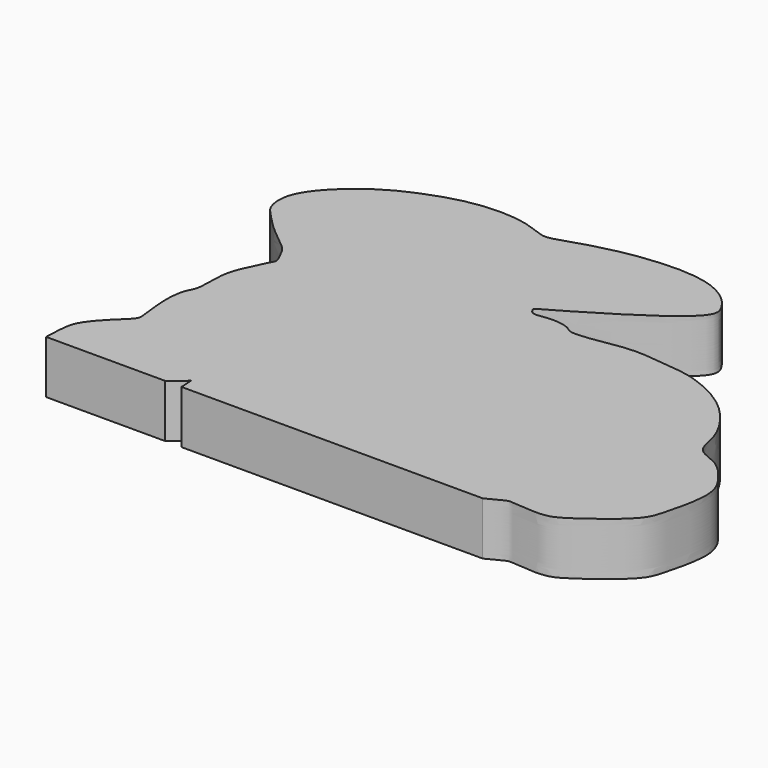
from build123d import *

# Parameters (mm, degrees)
F1_DEPTH = 18


with BuildPart() as f1:
    # F0 (on Top) → F1 (new body)
    with BuildSketch(Plane.XY):
        with BuildLine():
            add(Edge.make_bspline(
                [(3.9561353624, 1.0653864592), (4.0256955345, 2.9261752209), (4.1684964871, 6.7462118875), (4.8049380276, 13.060444088), (12.1278904893, 20.4781601883), (15.4809479093, 23.5454170625), (16.5220126779, 25.2526682698), (16.2593882597, 28.5102622565), (14.8893921712, 37.5962337842), (16.0324935063, 45.0272719985), (18.2125727796, 47.5221342952), (17.941378147, 55.177452398), (18.6829625714, 61.3786797655), (21.9058358496, 68.0147120541), (23.6481831871, 71.6840928815), (24.8948026327, 73.5373689268), (22.5168729216, 77.192488655), (21.6435120245, 80.1510156977), (12.3033067139, 86.7591953077), (6.4345178315, 93.3257492773), (3.3321667177, 96.4103786967), (1.9235398692, 106.8135580849), (16.4181786177, 121.0213247921), (30.2601421326, 127.911250908), (46.4749515539, 132.9814593573), (62.8189220428, 132.1804026479), (70.5785768085, 127.831960695), (76.6684716166, 130.0420452623), (92.1437769157, 134.8775403865), (110.4636760801, 136.7244451323), (122.3630656673, 135.0977880315), (129.6180252862, 130.942087482), (133.4022860458, 126.2196929459), (136.8592894245, 118.1683859193), (95.734225473, 95.0302981851), (94.6688105756, 94.3520146362), (95.2856900468, 93.0870163666), (96.777276908, 91.6181733144), (102.5039976346, 93.2000196132), (108.849717754, 91.8767002359), (110.4917621334, 89.3243493373), (123.2280517976, 91.2824267052), (131.0449456144, 92.7459684646), (144.4738015131, 91.069078194), (152.206882215, 90.2718533831), (164.8193450948, 84.7479490401), (173.0312994332, 76.4949133294), (178.5914418141, 67.4008226579), (179.2193801299, 57.8761413519), (187.7320801015, 56.2407427729), (193.4452341913, 49.7038524773), (199.2150371286, 41.5759991785), (194.9762636255, 25.3263648812), (193.2120137539, 18.0397879862), (178.5253873946, 6.9780844531), (172.351887507, 3.3688172902), (165.5988734316, 3.5461057274), (159.8680946184, 4.123343459), (157.9647857643, 4.213110247), (152.4098928723, 0.9227093736), (152.1864533424, 0.9890345391)],
                knots=[0, 0, 0, 0, 0.014534768, 0.0298707122, 0.0496313647, 0.0626900883, 0.070624456, 0.0812581072, 0.1002506977, 0.1168867539, 0.1276479915, 0.1441012309, 0.1600003837, 0.1766365276, 0.1889518863, 0.1973876869, 0.2094039487, 0.2203188003, 0.240875203, 0.259410528, 0.2717604912, 0.2899720895, 0.3169783963, 0.341622612, 0.3669272872, 0.39166395, 0.4090487523, 0.4237927048, 0.4485229605, 0.475419432, 0.4965460378, 0.5138598407, 0.528551436, 0.5438152537, 0.5850436789, 0.591024792, 0.5974804129, 0.6056220909, 0.6204233026, 0.6357242432, 0.6455351047, 0.666515489, 0.6851806126, 0.7071203714, 0.7247246164, 0.7470294786, 0.7682103937, 0.788227478, 0.805909208, 0.8225780451, 0.8404605501, 0.8594586382, 0.8837306165, 0.9011826931, 0.9268722245, 0.9435874816, 0.9593060557, 0.9735921228, 0.9833118426, 0.9983982291, 0.9983982291, 0.9983982291, 0.9983982291], degree=3))
            Line((3.9561353624, 1.0653864592), (44.3355068564, 1.0653864592))
            Line((44.3355068564, 1.0653864592), (49.7012361884, 5.3913830779))
            Line((49.7012361884, 5.3913830779), (49.9379634857, 1.0514535243))
            Line((49.9379634857, 1.0514535243), (152.1864533424, 0.9890345391))
        make_face()
    extrude(amount=F1_DEPTH)


solid = f1.part
